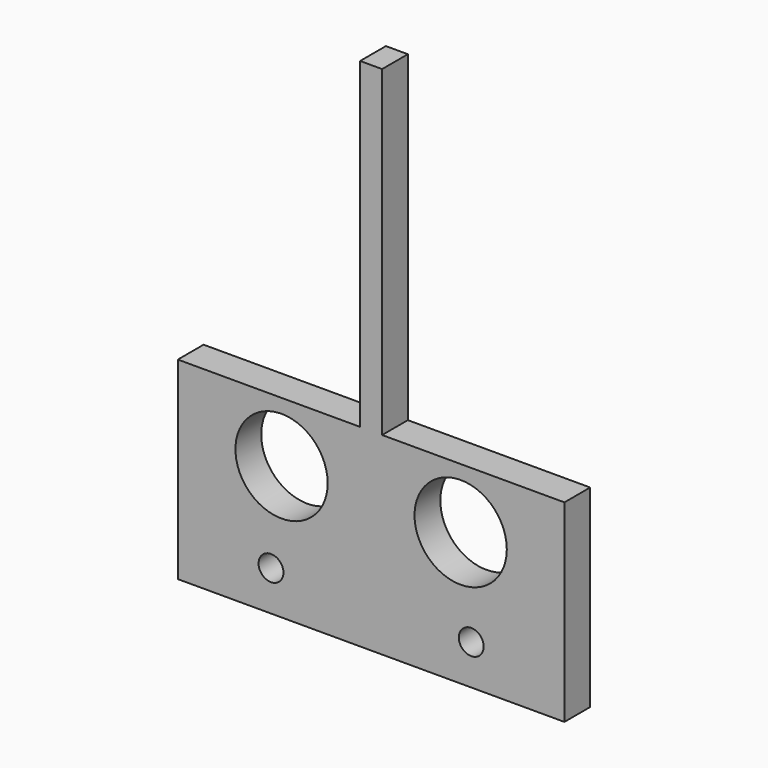
from build123d import *

# Parameters (mm, degrees)
F0_W     = 4.335432
F0_H     = 63.5
F0_R     = 2.4511
F0_R_2   = 9.0932
F1_DEPTH = 6.35


with BuildPart() as f1:
    # F0 (on Front) → F1 (new body)
    with BuildSketch(Plane.XZ):
        with Locations((0, 50.8)):
            Rectangle(F0_W, F0_H)
        Polygon((-38.1, -19.05), (38.1, -19.05), (38.1, 19.05), (2.167716, 19.05), (-2.167716, 19.05), (-38.1, 19.05), align=None)
        with Locations((-19.731838, -11.16004)):
            Circle(F0_R, mode=Mode.SUBTRACT)
        with Locations((-17.65278, 7.1953)):
            Circle(F0_R_2, mode=Mode.SUBTRACT)
        with Locations((19.731838, -11.16004)):
            Circle(F0_R, mode=Mode.SUBTRACT)
        with Locations((17.65278, 7.1953)):
            Circle(F0_R_2, mode=Mode.SUBTRACT)
    extrude(amount=F1_DEPTH)


solid = f1.part
